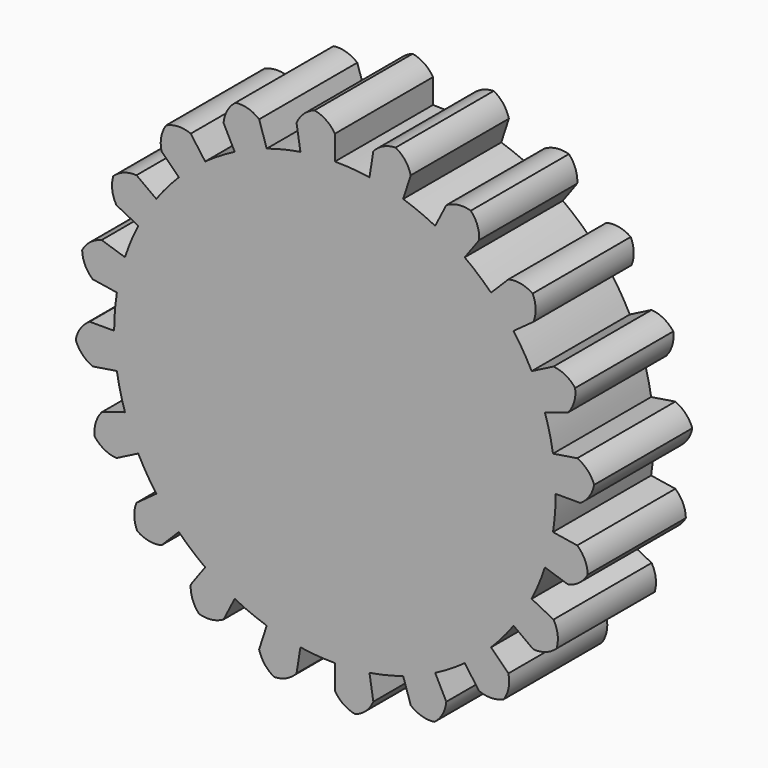
from build123d import *

# Parameters (mm, degrees)
F1_DEPTH = 6.35


with BuildPart() as f1:
    # F0 (on Front) → F1 (new body)
    with BuildSketch(Plane.XZ):
        with BuildLine():
            Line((0, 11.43), (0, 12.7))
            ThreePointArc((0, 12.7), (-0.996431, 12.66085), (-1.986718, 12.543642))
            Line((-1.986718, 12.543642), (-1.788046, 11.289278))
            ThreePointArc((-1.788046, 11.289278), (-2.668281, 11.114188), (-3.532064, 10.870576))
            Line((-3.532064, 10.870576), (-3.924516, 12.078418))
            ThreePointArc((-3.924516, 12.078418), (-4.500251, 12.385881), (-5.151037, 12.435703))
            ThreePointArc((-5.151037, 12.435703), (-5.575982, 11.940298), (-5.765679, 11.315783))
            Line((-5.765679, 11.315783), (-5.189111, 10.184205))
            ThreePointArc((-5.189111, 10.184205), (-5.972159, 9.745677), (-6.718385, 9.247064))
            Line((-6.718385, 9.247064), (-7.464873, 10.274516))
            ThreePointArc((-7.464873, 10.274516), (-8.107441, 10.389019), (-8.741771, 10.235298))
            ThreePointArc((-8.741771, 10.235298), (-8.992829, 9.632825), (-8.980256, 8.980256))
            Line((-8.980256, 8.980256), (-8.082231, 8.082231))
            ThreePointArc((-8.082231, 8.082231), (-8.69144, 7.423191), (-9.247064, 6.718385))
            Line((-9.247064, 6.718385), (-10.274516, 7.464873))
            ThreePointArc((-10.274516, 7.464873), (-10.921018, 7.375207), (-11.476799, 7.032992))
            ThreePointArc((-11.476799, 7.032992), (-11.529396, 6.382424), (-11.315783, 5.765679))
            Line((-11.315783, 5.765679), (-10.184205, 5.189111))
            ThreePointArc((-10.184205, 5.189111), (-10.559943, 4.374072), (-10.870576, 3.532064))
            Line((-10.870576, 3.532064), (-12.078418, 3.924516))
            ThreePointArc((-12.078418, 3.924516), (-12.665569, 3.639458), (-13.088399, 3.142246))
            ThreePointArc((-13.088399, 3.142246), (-12.937384, 2.507267), (-12.543642, 1.986718))
            Line((-12.543642, 1.986718), (-11.289278, 1.788046))
            ThreePointArc((-11.289278, 1.788046), (-11.394765, 0.896787), (-11.43, 0))
            Line((-11.43, 0), (-12.7, 0))
            ThreePointArc((-12.7, 0), (-13.170327, -0.452545), (-13.418814, -1.056084))
            ThreePointArc((-13.418814, -1.056084), (-13.078972, -1.613319), (-12.543642, -1.986718))
            Line((-12.543642, -1.986718), (-11.289278, -1.788046))
            ThreePointArc((-11.289278, -1.788046), (-11.114188, -2.668281), (-10.870576, -3.532064))
            Line((-10.870576, -3.532064), (-12.078418, -3.924516))
            ThreePointArc((-12.078418, -3.924516), (-12.385881, -4.500251), (-12.435703, -5.151037))
            ThreePointArc((-12.435703, -5.151037), (-11.940298, -5.575982), (-11.315783, -5.765679))
            Line((-11.315783, -5.765679), (-10.184205, -5.189111))
            ThreePointArc((-10.184205, -5.189111), (-9.745677, -5.972159), (-9.247064, -6.718385))
            Line((-9.247064, -6.718385), (-10.274516, -7.464873))
            ThreePointArc((-10.274516, -7.464873), (-10.389019, -8.107441), (-10.235298, -8.741771))
            ThreePointArc((-10.235298, -8.741771), (-9.632825, -8.992829), (-8.980256, -8.980256))
            Line((-8.980256, -8.980256), (-8.082231, -8.082231))
            ThreePointArc((-8.082231, -8.082231), (-7.423191, -8.69144), (-6.718385, -9.247064))
            Line((-6.718385, -9.247064), (-7.464873, -10.274516))
            ThreePointArc((-7.464873, -10.274516), (-7.375207, -10.921018), (-7.032992, -11.476799))
            ThreePointArc((-7.032992, -11.476799), (-6.382424, -11.529396), (-5.765679, -11.315783))
            Line((-5.765679, -11.315783), (-5.189111, -10.184205))
            ThreePointArc((-5.189111, -10.184205), (-4.374072, -10.559943), (-3.532064, -10.870576))
            Line((-3.532064, -10.870576), (-3.924516, -12.078418))
            ThreePointArc((-3.924516, -12.078418), (-3.639458, -12.665569), (-3.142246, -13.088399))
            ThreePointArc((-3.142246, -13.088399), (-2.507267, -12.937384), (-1.986718, -12.543642))
            Line((-1.986718, -12.543642), (-1.788046, -11.289278))
            ThreePointArc((-1.788046, -11.289278), (-0.896787, -11.394765), (0, -11.43))
            Line((0, -11.43), (0, -12.7))
            ThreePointArc((0, -12.7), (0.452545, -13.170327), (1.056084, -13.418814))
            ThreePointArc((1.056084, -13.418814), (1.613319, -13.078972), (1.986718, -12.543642))
            Line((1.986718, -12.543642), (1.788046, -11.289278))
            ThreePointArc((1.788046, -11.289278), (2.668281, -11.114188), (3.532064, -10.870576))
            Line((3.532064, -10.870576), (3.924516, -12.078418))
            ThreePointArc((3.924516, -12.078418), (4.500251, -12.385881), (5.151037, -12.435703))
            ThreePointArc((5.151037, -12.435703), (5.575982, -11.940298), (5.765679, -11.315783))
            Line((5.765679, -11.315783), (5.189111, -10.184205))
            ThreePointArc((5.189111, -10.184205), (5.972159, -9.745677), (6.718385, -9.247064))
            Line((6.718385, -9.247064), (7.464873, -10.274516))
            ThreePointArc((7.464873, -10.274516), (8.107441, -10.389019), (8.741771, -10.235298))
            ThreePointArc((8.741771, -10.235298), (8.992829, -9.632825), (8.980256, -8.980256))
            Line((8.980256, -8.980256), (8.082231, -8.082231))
            ThreePointArc((8.082231, -8.082231), (8.69144, -7.423191), (9.247064, -6.718385))
            Line((9.247064, -6.718385), (10.274516, -7.464873))
            ThreePointArc((10.274516, -7.464873), (10.921018, -7.375207), (11.476799, -7.032992))
            ThreePointArc((11.476799, -7.032992), (11.529396, -6.382424), (11.315783, -5.765679))
            Line((11.315783, -5.765679), (10.184205, -5.189111))
            ThreePointArc((10.184205, -5.189111), (10.559943, -4.374072), (10.870576, -3.532064))
            Line((10.870576, -3.532064), (12.078418, -3.924516))
            ThreePointArc((12.078418, -3.924516), (12.665569, -3.639458), (13.088399, -3.142246))
            ThreePointArc((13.088399, -3.142246), (12.937384, -2.507267), (12.543642, -1.986718))
            Line((12.543642, -1.986718), (11.289278, -1.788046))
            ThreePointArc((11.289278, -1.788046), (11.394765, -0.896787), (11.43, 0))
            Line((11.43, 0), (12.7, 0))
            ThreePointArc((12.7, 0), (13.170327, 0.452545), (13.418814, 1.056084))
            ThreePointArc((13.418814, 1.056084), (13.078972, 1.613319), (12.543642, 1.986718))
            Line((12.543642, 1.986718), (11.289278, 1.788046))
            ThreePointArc((11.289278, 1.788046), (11.114188, 2.668281), (10.870576, 3.532064))
            Line((10.870576, 3.532064), (12.078418, 3.924516))
            ThreePointArc((12.078418, 3.924516), (12.385881, 4.500251), (12.435703, 5.151037))
            ThreePointArc((12.435703, 5.151037), (11.940298, 5.575982), (11.315783, 5.765679))
            Line((11.315783, 5.765679), (10.184205, 5.189111))
            ThreePointArc((10.184205, 5.189111), (9.745677, 5.972159), (9.247064, 6.718385))
            Line((9.247064, 6.718385), (10.274516, 7.464873))
            ThreePointArc((10.274516, 7.464873), (10.389019, 8.107441), (10.235298, 8.741771))
            ThreePointArc((10.235298, 8.741771), (9.632825, 8.992829), (8.980256, 8.980256))
            Line((8.980256, 8.980256), (8.082231, 8.082231))
            ThreePointArc((8.082231, 8.082231), (7.423191, 8.69144), (6.718385, 9.247064))
            Line((6.718385, 9.247064), (7.464873, 10.274516))
            ThreePointArc((7.464873, 10.274516), (7.375207, 10.921018), (7.032992, 11.476799))
            ThreePointArc((7.032992, 11.476799), (6.382424, 11.529396), (5.765679, 11.315783))
            Line((5.765679, 11.315783), (5.189111, 10.184205))
            ThreePointArc((5.189111, 10.184205), (4.374072, 10.559943), (3.532064, 10.870576))
            Line((3.532064, 10.870576), (3.924516, 12.078418))
            ThreePointArc((3.924516, 12.078418), (3.639458, 12.665569), (3.142246, 13.088399))
            ThreePointArc((3.142246, 13.088399), (2.507267, 12.937384), (1.986718, 12.543642))
            Line((1.986718, 12.543642), (1.788046, 11.289278))
            ThreePointArc((1.788046, 11.289278), (0.896787, 11.394765), (0, 11.43))
        make_face()
        with BuildLine():
            ThreePointArc((-1.986718, 12.543642), (-0.996431, 12.66085), (0, 12.7))
            ThreePointArc((0, 12.7), (-0.452545, 13.170327), (-1.056084, 13.418814))
            ThreePointArc((-1.056084, 13.418814), (-1.613319, 13.078972), (-1.986718, 12.543642))
        make_face()
    extrude(amount=F1_DEPTH)


solid = f1.part
